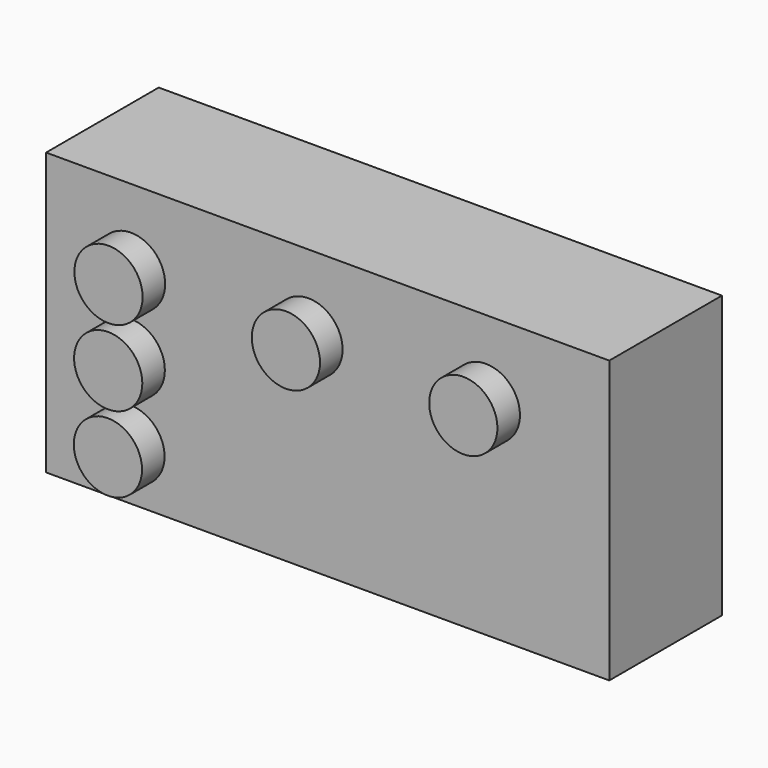
from build123d import *

# Parameters (mm, degrees)
F0_W     = 50.8
F0_H     = 25.4
F1_DEPTH = 12.7
F2_R     = 3.076817
F3_DEPTH = 2.54


with BuildPart() as f1:
    # F0 (on Front) → F1 (new body)
    with BuildSketch(Plane.XZ):
        with Locations((25.4, 12.7)):
            Rectangle(F0_W, F0_H)
    extrude(amount=F1_DEPTH)

    # F2 (on face) → F3 (join)
    with BuildSketch(Plane.XZ.offset(12.7)):
        with Locations((7.662024, 18.451976)):
            Circle(F2_R)
        with Locations((23.664024, 18.451976)):
            Circle(F2_R)
        with Locations((39.666024, 18.451976)):
            Circle(F2_R)
        with Locations((7.636027, 11.594025)):
            Circle(F2_R)
        with Locations((7.610031, 4.736074)):
            Circle(F2_R)
    extrude(amount=F3_DEPTH)


solid = f1.part
